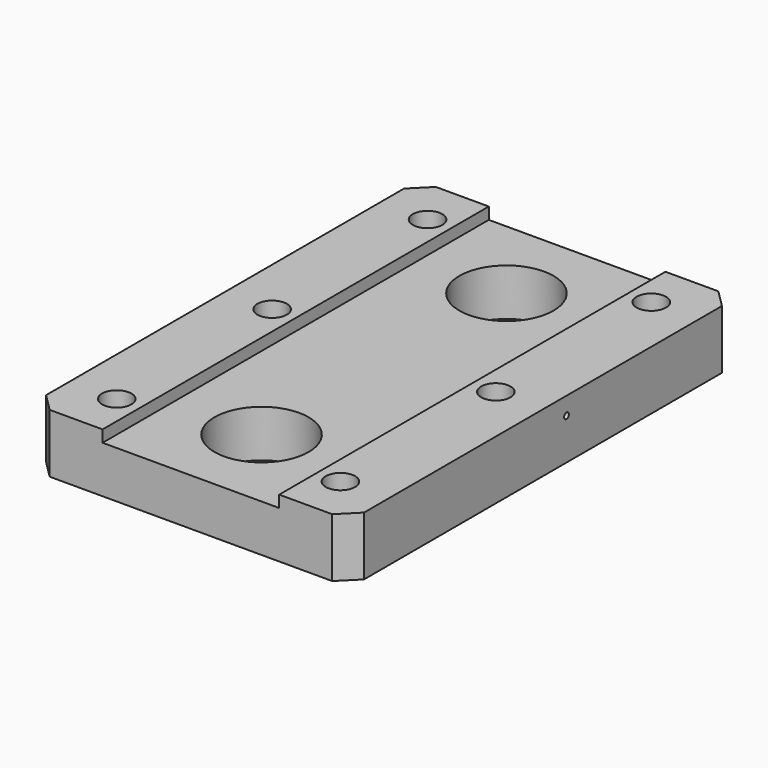
from build123d import *

# Parameters (mm, degrees)
F0_W     = 54
F0_H     = 82
F0_R     = 2.5
F0_R_2   = 8
F1_DEPTH = 10
F2_SIZE  = 3
F3_W     = 30
F3_H     = 82
F4_DEPTH = 2
F5_R     = 0.5
F6_DEPTH = 27


with BuildPart() as f1:
    # F0 (on Top) → F1 (new body)
    with BuildSketch(Plane.XY):
        Rectangle(F0_W, F0_H)
        with Locations((-19, -33)):
            Circle(F0_R, mode=Mode.SUBTRACT)
        with Locations((0, -26)):
            Circle(F0_R_2, mode=Mode.SUBTRACT)
        with Locations((19, -33)):
            Circle(F0_R, mode=Mode.SUBTRACT)
        with Locations((-19, 0)):
            Circle(F0_R, mode=Mode.SUBTRACT)
        with Locations((-19, 33)):
            Circle(F0_R, mode=Mode.SUBTRACT)
        with Locations((19, 0)):
            Circle(F0_R, mode=Mode.SUBTRACT)
        with Locations((0, 26)):
            Circle(F0_R_2, mode=Mode.SUBTRACT)
        with Locations((19, 33)):
            Circle(F0_R, mode=Mode.SUBTRACT)
    extrude(amount=F1_DEPTH)

    # F2
    f2_edges = [f1.edges().sort_by_distance(p)[0] for p in [
        (27, -41, 5),
        (-27, -41, 5),
        (27, 41, 5),
        (-27, 41, 5),
    ]]
    chamfer(f2_edges, length=F2_SIZE)

    # F3 (on face) → F4 (cut)
    with BuildSketch(Plane.XY.offset(10)):
        Rectangle(F3_W, F3_H)
    extrude(amount=-F4_DEPTH, mode=Mode.SUBTRACT)

    # F5 (on face) → F6 (cut)
    with BuildSketch(Plane.YZ.offset(27)):
        with Locations((5, 7)):
            Circle(F5_R)
    extrude(amount=-F6_DEPTH, mode=Mode.SUBTRACT)


solid = f1.part
